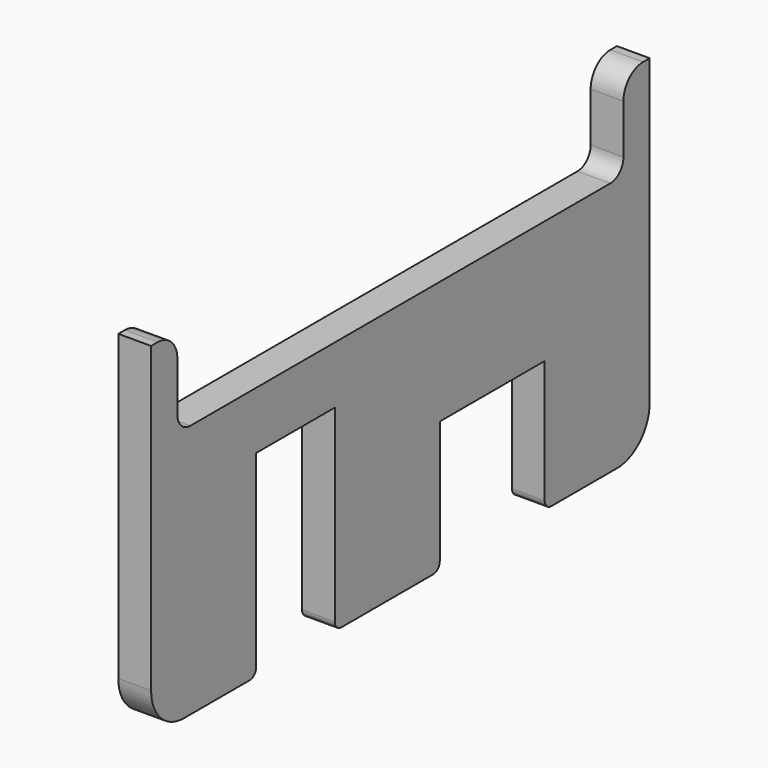
from build123d import *

# Parameters (mm, degrees)
F1_DEPTH = 6.35
F2_R     = 3.175
F3_R     = 6.35
F4_R     = 9.525
F5_R     = 15.875


with BuildPart() as f1:
    # F0 (on Right) → F1 (new body, symmetric)
    with BuildSketch(Plane.YZ):
        Polygon((-86.446608, 133.35), (-86.446608, 0), (-35.646608, 0), (-35.646608, 76.2), (2.453392, 76.2), (2.453392, 0), (53.253392, 0), (53.253392, 50.8), (104.053392, 50.8), (104.053392, 0), (154.853392, 0), (154.853392, 133.35), (142.153392, 133.35), (142.153392, 98.425), (-73.746608, 98.425), (-73.746608, 133.35), align=None)
    extrude(amount=F1_DEPTH, both=True)

    # F2
    f2_edges = [f1.edges().sort_by_distance(p)[0] for p in [
        (0, 53.253392, 0),
        (0, 104.053392, 0),
        (0, 2.453392, 0),
        (0, -35.646608, 0),
    ]]
    fillet(f2_edges, radius=F2_R)

    # F3
    f3_edges = [f1.edges().sort_by_distance(p)[0] for p in [
        (0, -73.746608, 98.425),
        (0, 142.153392, 98.425),
    ]]
    fillet(f3_edges, radius=F3_R)

    # F4
    f4_edges = [f1.edges().sort_by_distance(p)[0] for p in [
        (0, -73.746608, 133.35),
        (0, 142.153392, 133.35),
    ]]
    fillet(f4_edges, radius=F4_R)

    # F5
    f5_edges = [f1.edges().sort_by_distance(p)[0] for p in [
        (0, -86.446608, 0),
        (0, 154.853392, 0),
    ]]
    fillet(f5_edges, radius=F5_R)


solid = f1.part
